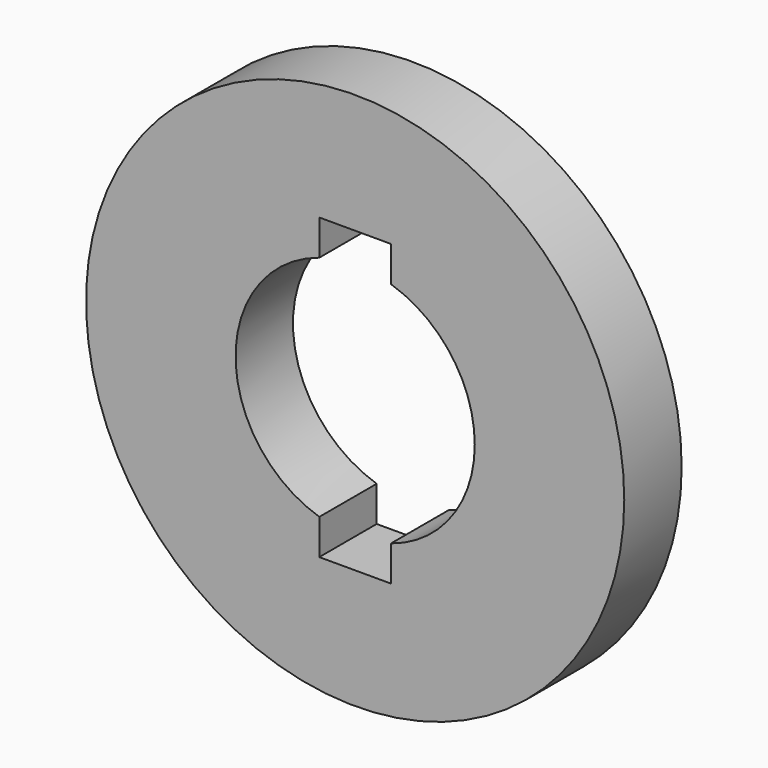
from build123d import *

# Parameters (mm, degrees)
F0_R     = 22.5
F1_DEPTH = 6


with BuildPart() as f1:
    # F0 (on Front) → F1 (new body)
    with BuildSketch(Plane.XZ):
        Circle(F0_R)
        with BuildLine():
            ThreePointArc((3, 9.539392), (8.062258, 5.91608), (10, 0))
            ThreePointArc((10, 0), (8.062258, -5.91608), (3, -9.539392))
            Line((3, -9.539392), (3, -12.5))
            Line((3, -12.5), (-3, -12.5))
            Line((-3, -12.5), (-3, -9.539392))
            ThreePointArc((-3, -9.539392), (-10, 0), (-3, 9.539392))
            Line((-3, 9.539392), (-3, 12.5))
            Line((-3, 12.5), (3, 12.5))
            Line((3, 12.5), (3, 9.539392))
        make_face(mode=Mode.SUBTRACT)
    extrude(amount=F1_DEPTH)


solid = f1.part
